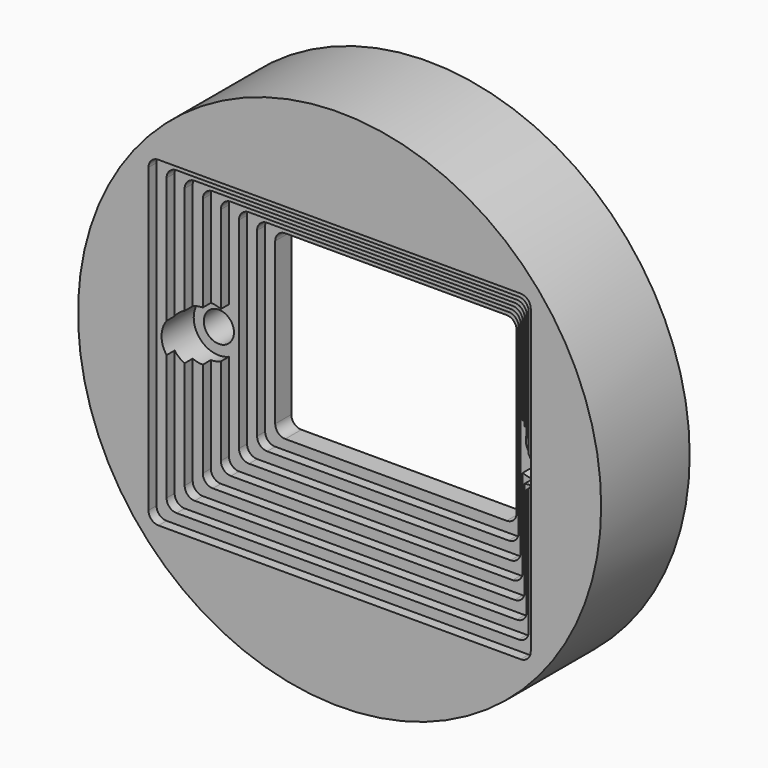
from build123d import *

# Parameters (mm, degrees)
F0_R      = 26
F0_W      = 24
F0_H      = 18
F1_DEPTH  = 11
F3_DEPTH  = 2
F4_W      = 26
F4_H      = 20
F5_DEPTH  = 7
F6_W      = 28
F6_H      = 22
F7_DEPTH  = 6
F8_W      = 30
F8_H      = 24
F9_DEPTH  = 5
F10_W     = 32
F10_H     = 26
F11_DEPTH = 4
F12_DEPTH = 4
F13_W     = 34
F13_H     = 28
F14_DEPTH = 3
F15_W     = 36
F15_H     = 30
F15_W_2   = 34
F15_H_2   = 28
F16_DEPTH = 2
F17_W     = 38
F17_H     = 32
F17_W_2   = 36
F17_H_2   = 30
F18_DEPTH = 1
F19_R     = 1
F20_R     = 1.5
F21_DEPTH = 25
F22_R     = 2.5
F23_DEPTH = 5


with BuildPart() as f1:
    # F0 (on Front) → F1 (new body)
    with BuildSketch(Plane.XZ):
        Circle(F0_R)
        Rectangle(F0_W, F0_H, mode=Mode.SUBTRACT)
    extrude(amount=F1_DEPTH)

    # F2 (on face) → F3 (cut)
    with BuildSketch(Plane(origin=(0, 0, 0), x_dir=(-1, 0, 0), z_dir=(0, 1, 0))):
        with BuildLine():
            ThreePointArc((14, 9), (13.4142135624, 10.4142135624), (12, 11))
            Line((12, 11), (-12, 11))
            ThreePointArc((-12, 11), (-13.4142135624, 10.4142135624), (-14, 9))
            Line((-14, 9), (-14, -9))
            ThreePointArc((-14, -9), (-13.4142135624, -10.4142135624), (-12, -11))
            Line((-12, -11), (12, -11))
            ThreePointArc((12, -11), (13.4142135624, -10.4142135624), (14, -9))
            Line((14, -9), (14, 9))
        make_face()
    extrude(amount=-F3_DEPTH, mode=Mode.SUBTRACT)

    # F4 (on face) → F5 (cut)
    with BuildSketch(Plane.XZ.offset(11)):
        Rectangle(F4_W, F4_H)
    extrude(amount=-F5_DEPTH, mode=Mode.SUBTRACT)

    # F6 (on face) → F7 (cut)
    with BuildSketch(Plane.XZ.offset(11)):
        Rectangle(F6_W, F6_H)
    extrude(amount=-F7_DEPTH, mode=Mode.SUBTRACT)

    # F8 (on face) → F9 (cut)
    with BuildSketch(Plane.XZ.offset(11)):
        Rectangle(F8_W, F8_H)
    extrude(amount=-F9_DEPTH, mode=Mode.SUBTRACT)

    # F10 (on face) → F11 (cut)
    with BuildSketch(Plane.XZ.offset(11)):
        Rectangle(F10_W, F10_H)
    extrude(amount=-F11_DEPTH, mode=Mode.SUBTRACT)

    # F10 (on face) → F12 (cut)
    with BuildSketch(Plane.XZ.offset(11)):
        Rectangle(F10_W, F10_H)
    extrude(amount=-F12_DEPTH, mode=Mode.SUBTRACT)

    # F13 (on face) → F14 (cut)
    with BuildSketch(Plane.XZ.offset(11)):
        Rectangle(F13_W, F13_H)
    extrude(amount=-F14_DEPTH, mode=Mode.SUBTRACT)

    # F15 (on face) → F16 (cut)
    with BuildSketch(Plane.XZ.offset(11)):
        Rectangle(F15_W, F15_H)
        Rectangle(F15_W_2, F15_H_2, mode=Mode.SUBTRACT)
    extrude(amount=-F16_DEPTH, mode=Mode.SUBTRACT)

    # F17 (on face) → F18 (cut)
    with BuildSketch(Plane.XZ.offset(11)):
        Rectangle(F17_W, F17_H)
        Rectangle(F17_W_2, F17_H_2, mode=Mode.SUBTRACT)
    extrude(amount=-F18_DEPTH, mode=Mode.SUBTRACT)

    # F19
    f19_edges = [f1.edges().sort_by_distance(p)[0] for p in [
        (15, -6.5, -12),
        (13, -4.5, -10),
        (14, -5.5, -11),
        (12, -3, -9),
        (-15, -6.5, -12),
        (-14, -5.5, -11),
        (-13, -4.5, -10),
        (-12, -3, -9),
        (-12, -3, 9),
        (-13, -4.5, 10),
        (-14, -5.5, 11),
        (-15, -6.5, 12),
        (15, -6.5, 12),
        (14, -5.5, 11),
        (12, -3, 9),
        (13, -4.5, 10),
        (16, -7.5, -13),
        (17, -8.5, -14),
        (18, -9.5, -15),
        (19, -10.5, -16),
        (-16, -7.5, -13),
        (-17, -8.5, -14),
        (-18, -9.5, -15),
        (-19, -10.5, -16),
        (-16, -7.5, 13),
        (-17, -8.5, 14),
        (-18, -9.5, 15),
        (-19, -10.5, 16),
        (19, -10.5, 16),
        (18, -9.5, 15),
        (16, -7.5, 13),
        (17, -8.5, 14),
    ]]
    fillet(f19_edges, radius=F19_R)

    # F20 (on face) → F21 (cut)
    with BuildSketch(Plane.XZ.offset(11)):
        with Locations((-16, 0)):
            Circle(F20_R)
        with Locations((16, 0)):
            Circle(F20_R)
    extrude(amount=-F21_DEPTH, mode=Mode.SUBTRACT)

    # F22 (on face) → F23 (cut)
    with BuildSketch(Plane.XZ.offset(11)):
        with Locations((-16, 0)):
            Circle(F22_R)
        with Locations((16, 0)):
            Circle(F22_R)
    extrude(amount=-F23_DEPTH, mode=Mode.SUBTRACT)


solid = f1.part
